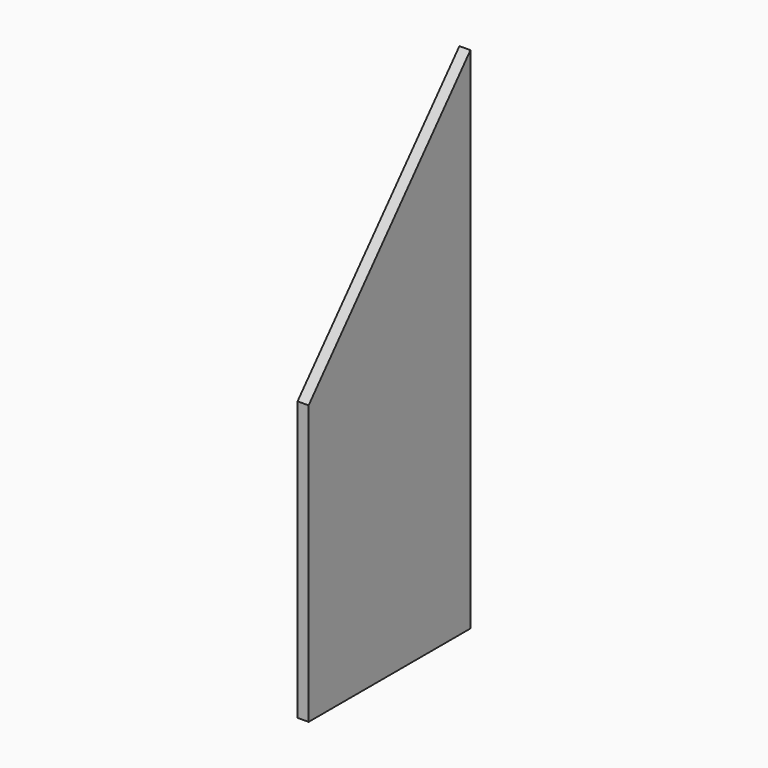
from build123d import *

# Parameters (mm, degrees)
F0_W     = 165
F0_H     = 200
F1_DEPTH = 9


with BuildPart() as f1:
    # F0 (on Right) → F1 (new body)
    with BuildSketch(Plane.YZ):
        Rectangle(F0_W, F0_H)
        Polygon((-82.5, 100), (82.5, 100), (82.5, 288), align=None)
        Polygon((-82.5, 127.287778), (-82.5, 100), (82.5, 288), (82.5, 315.287778), align=None)
    extrude(amount=F1_DEPTH)


solid = f1.part
